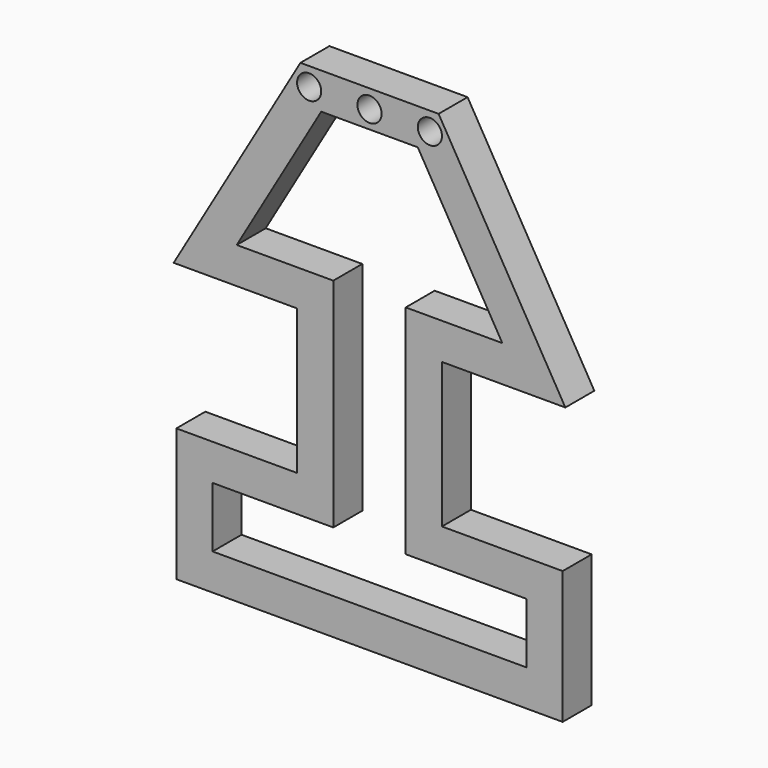
from build123d import *

# Parameters (mm, degrees)
F1_R     = 5
F2_DEPTH = 15
F3_DEPTH = 15.001


with BuildPart() as f2:
    # F1 (on Front) → F2 (new body)
    with BuildSketch(Plane.XZ):
        Polygon((-30, -75), (-80, -75), (-80, -130), (80, -130), (80, -75), (30, -75), (30, -15), (81.1153908707, -15), (28.6160456463, 75), (-28.6150643279, 75), (-81.1157191034, -15), (-30, -15), align=None)
        with Locations((-25, 67.3705860972)):
            Circle(F1_R, mode=Mode.SUBTRACT)
        with Locations((0, 67.3705860972)):
            Circle(F1_R, mode=Mode.SUBTRACT)
        with Locations((25, 67.3705860972)):
            Circle(F1_R, mode=Mode.SUBTRACT)
    extrude(amount=-F2_DEPTH)

    # F0 (on Front) → F3 (cut, through all)
    with BuildSketch(Plane.XZ):
        Polygon((20.000436517, 60), (-19.999563483, 60), (-55, 0), (-15, 0), (-15, -90), (-65, -90), (-65, -115), (65, -115), (65, -90), (15, -90), (15, 0), (55, 0), align=None)
    extrude(amount=-F3_DEPTH, mode=Mode.SUBTRACT)


solid = f2.part
